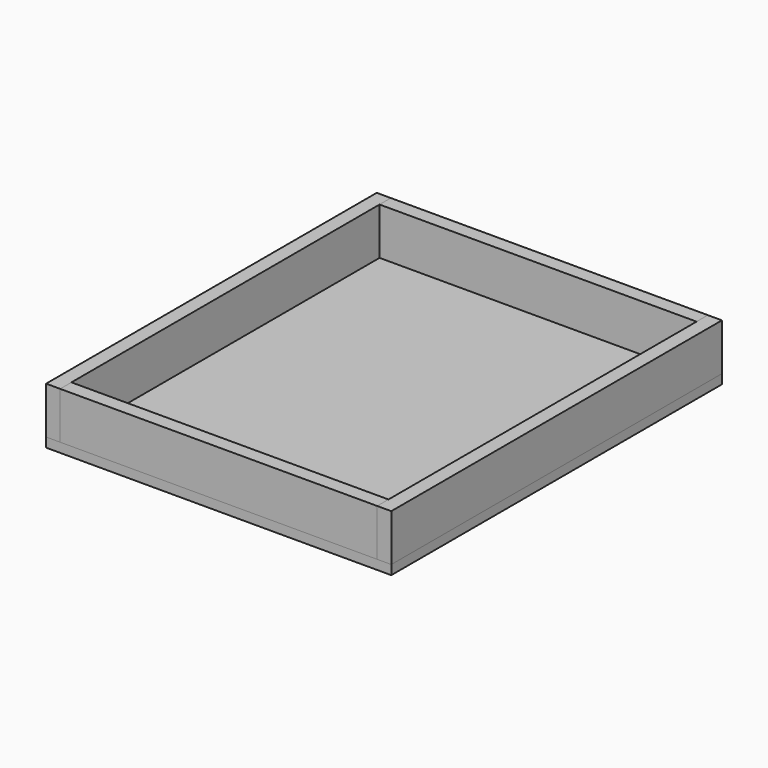
from build123d import *

# Parameters (mm, degrees)
F0_W           = 466.725
F0_H           = 558.8
F1_DEPTH       = 12.7
F2_W           = 19.05
F2_H           = 558.8
F3_DEPTH       = 63.5
F4_W           = 428.625
F4_H           = 19.05
F5_DEPTH       = 63.5
F7_D           = 4.4958
F7_CSINK_D     = 9.1186
F7_CSINK_ANGLE = 82


with BuildPart() as f1:
    # F0 (on Top) → F1 (new body)
    with BuildSketch(Plane.XY):
        Rectangle(F0_W, F0_H)
    extrude(amount=F1_DEPTH)

    # F7 (through all)
    with Locations(Plane(origin=(0, 0, 0), x_dir=(1, 0, 0), z_dir=(0, 0, -1))):
        with Locations((-227.0125, 273.05)):
            CounterSinkHole(F7_D / 2, F7_CSINK_D / 2, counter_sink_angle=F7_CSINK_ANGLE)


with BuildPart() as f3:
    # F2 (on face) → F3 (new body)
    with BuildSketch(Plane.XY.offset(12.7)):
        with Locations((-223.8375, 0)):
            Rectangle(F2_W, F2_H)
    extrude(amount=F3_DEPTH)


with BuildPart() as f3b:
    # F2 (on face) → F3, piece 2 (new body)
    with BuildSketch(Plane.XY.offset(12.7)):
        with Locations((223.8375, 0)):
            Rectangle(F2_W, F2_H)
    extrude(amount=F3_DEPTH)


with BuildPart() as f5:
    # F4 (on face) → F5 (new body, through all)
    with BuildSketch(Plane.XY.offset(12.7)):
        with Locations((0, -269.875)):
            Rectangle(F4_W, F4_H)
    extrude(amount=F5_DEPTH)


with BuildPart() as f5b:
    # F4 (on face) → F5, piece 2 (new body, through all)
    with BuildSketch(Plane.XY.offset(12.7)):
        with Locations((0, 269.875)):
            Rectangle(F4_W, F4_H)
    extrude(amount=F5_DEPTH)


solid = Compound([f1.part, f3.part, f3b.part, f5.part, f5b.part])
